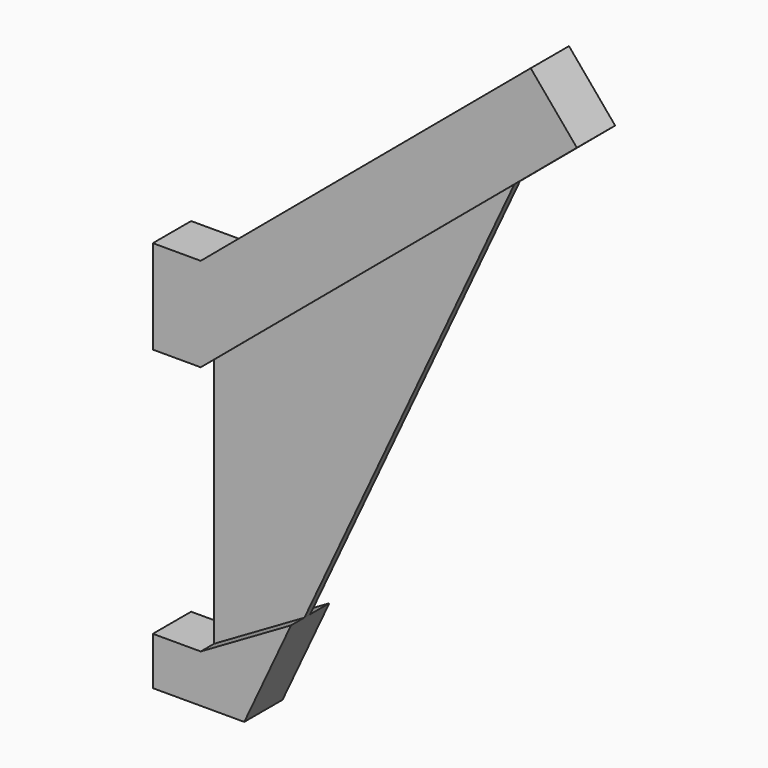
from build123d import *

# Parameters (mm, degrees)
F1_DEPTH      = 10
F1_DEPTH_BACK = 10
F2_DEPTH      = 3
F3_DEPTH      = 10
F3_DEPTH_BACK = 10


with BuildPart() as f1:
    # F0 (on Front) → F1 (new body, two sides)
    with BuildSketch(Plane.XZ) as f1_sk:
        Polygon((-9.122807, 39.162219), (-29.122807, 39.162219), (-29.122807, 0), (-9.122807, 0), (116.327327, 105.265161), (148.048821, 131.882655), (128.765193, 154.863988), align=None)
    extrude(amount=F1_DEPTH)
    extrude(f1_sk.sketch, amount=-F1_DEPTH_BACK)

    # F0 (on Front) → F2 (join)
    with BuildSketch(Plane.XZ):
        Polygon((116.327327, 105.265161), (-9.122807, 0), (-9.122807, -104.527941), (28.618485, -82.653101), align=None)
    extrude(amount=F2_DEPTH)

    # F0 (on Front) → F3 (join, two sides)
    with BuildSketch(Plane.XZ) as f3_sk:
        Polygon((28.618485, -82.653101), (-9.122807, -104.527941), (-29.122807, -104.527941), (-29.122807, -124.527941), (9.073851, -124.527941), align=None)
    extrude(amount=F3_DEPTH)
    extrude(f3_sk.sketch, amount=-F3_DEPTH_BACK)


solid = f1.part
